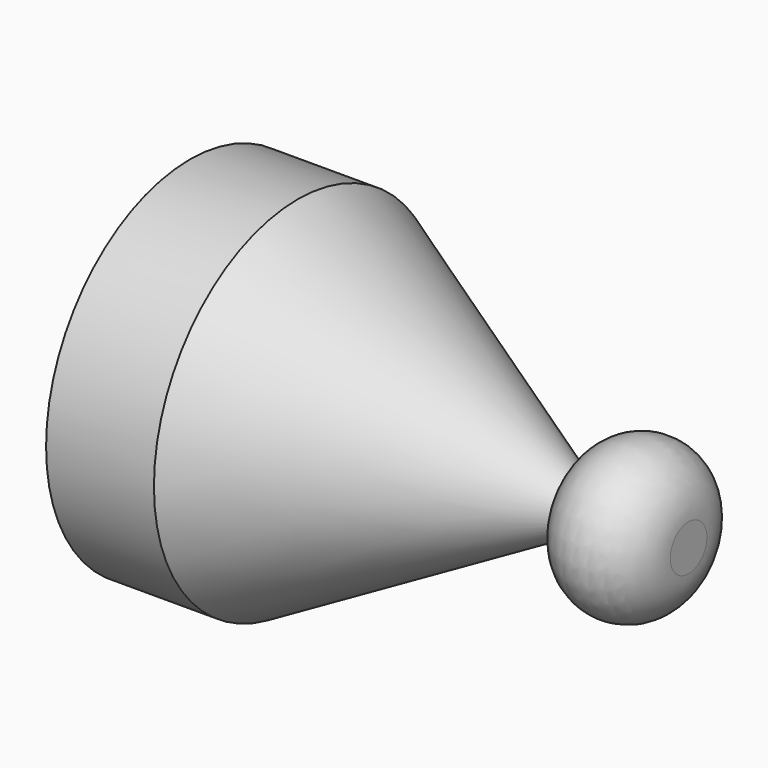
from build123d import *


with BuildPart() as f1:
    # F0 (on Front) → F1 (revolve)
    with BuildSketch(Plane.XZ):
        with BuildLine():
            Line((0, 50), (0, 0))
            Line((0, 0), (138.715774, 0))
            Line((138.715774, 0), (138.715774, 6.367134))
            ThreePointArc((138.715774, 6.367134), (123.715774, 21.367134), (108.715774, 6.367134))
            Line((108.715774, 6.367134), (30, 50))
            Line((30, 50), (0, 50))
        make_face()
    revolve(axis=Axis((75, 0, 0), (1, 0, 0)))


solid = f1.part
